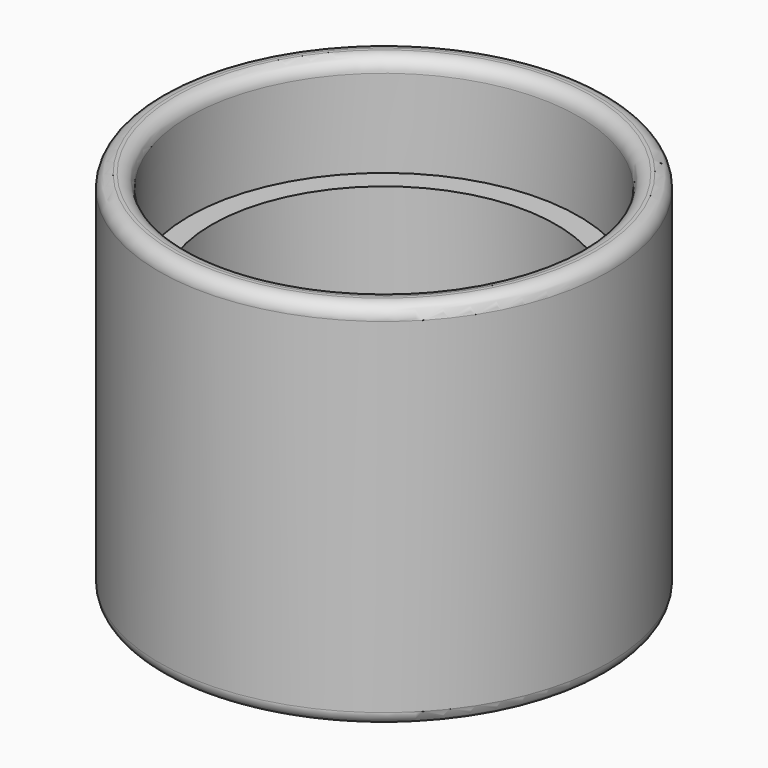
from build123d import *

# Parameters (mm, degrees)
F0_R     = 12.7
F0_R_2   = 10.9982
F1_DEPTH = 5.715
F0_R_3   = 9.7155
F2_DEPTH = 15.24
F3_R     = 0.762


with BuildPart() as f1:
    # F0 (on Top) → F1 (new body)
    with BuildSketch(Plane.XY):
        Circle(F0_R)
        Circle(F0_R_2, mode=Mode.SUBTRACT)
    extrude(amount=F1_DEPTH)

    # F0 (on Top) → F2 (join)
    with BuildSketch(Plane.XY):
        Circle(F0_R)
        Circle(F0_R_2, mode=Mode.SUBTRACT)
        Circle(F0_R_2)
        Circle(F0_R_3, mode=Mode.SUBTRACT)
    extrude(amount=-F2_DEPTH)

    # F3
    f3_edges = [f1.edges().sort_by_distance(p)[0] for p in [
        (-9.7155, 0, -15.24),
        (-12.7, 0, -15.24),
        (-12.7, 0, 5.715),
        (-10.9982, 0, 5.715),
    ]]
    fillet(f3_edges, radius=F3_R)


solid = f1.part
